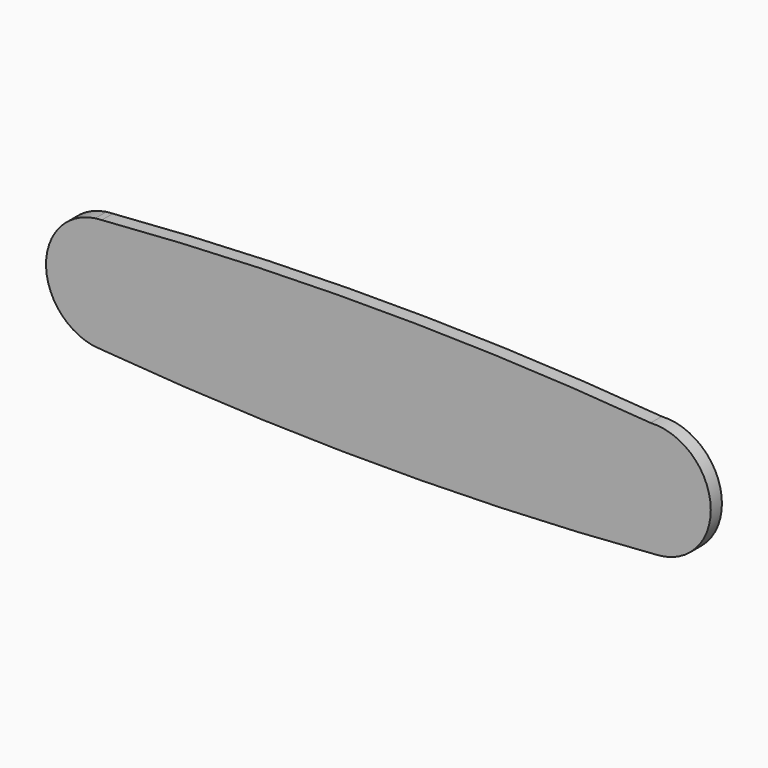
from build123d import *

# Parameters (mm, degrees)
F1_DEPTH = 20


with BuildPart() as f1:
    # F0 (on Front) → F1 (new body)
    with BuildSketch(Plane.XZ):
        with BuildLine():
            ThreePointArc((-49.7328845509, 82.027652927), (-54.3163875498, 81.6524498366), (-58.8995327156, 81.2729007771))
            ThreePointArc((-58.8995327156, 81.2729007771), (-129.6276844332, 1.8675286407), (-62.5862937495, -80.6741971997))
            ThreePointArc((-62.5862937495, -80.6741971997), (-54.3983095736, -81.3659722205), (-46.209165104, -82.0438736892))
            ThreePointArc((-46.209165104, -82.0438736892), (10.915997147, -57.5305572299), (34.4621609717, 0))
            ThreePointArc((34.4621609717, 0), (9.6672248523, 58.7735942734), (-49.7328845509, 82.027652927))
        make_face()
        with BuildLine():
            ThreePointArc((738.1113483102, 81.9430534241), (344.1909525373, 98.009208707), (-49.7328845509, 82.027652927))
            ThreePointArc((-49.7328845509, 82.027652927), (9.6672248523, 58.7735942734), (34.4621609717, 0))
            Line((34.4621609717, 0), (660.3510609717, 0))
            ThreePointArc((660.3510609717, 0), (682.8853398752, 56.4830202172), (738.1113483102, 81.9430534241))
        make_face()
        with BuildLine():
            ThreePointArc((34.4621609717, 0), (10.915997147, -57.5305572299), (-46.209165104, -82.0438736892))
            ThreePointArc((-46.209165104, -82.0438736892), (350.9486567166, -98.2391856001), (748.0988502502, -81.8578749895))
            ThreePointArc((748.0988502502, -81.8578749895), (686.433253644, -60.0008046218), (660.3510609717, 0))
            Line((660.3510609717, 0), (34.4621609717, 0))
        make_face()
        with BuildLine():
            ThreePointArc((824.4621609717, 0), (798.8896311889, 59.5212710965), (738.1113483102, 81.9430534241))
            ThreePointArc((738.1113483102, 81.9430534241), (682.8853398752, 56.4830202172), (660.3510609717, 0))
            ThreePointArc((660.3510609717, 0), (686.433253644, -60.0008046218), (748.0988502502, -81.8578749895))
            ThreePointArc((748.0988502502, -81.8578749895), (802.4074155935, -55.9733573277), (824.4621609717, 0))
        make_face()
    extrude(amount=F1_DEPTH)


solid = f1.part
